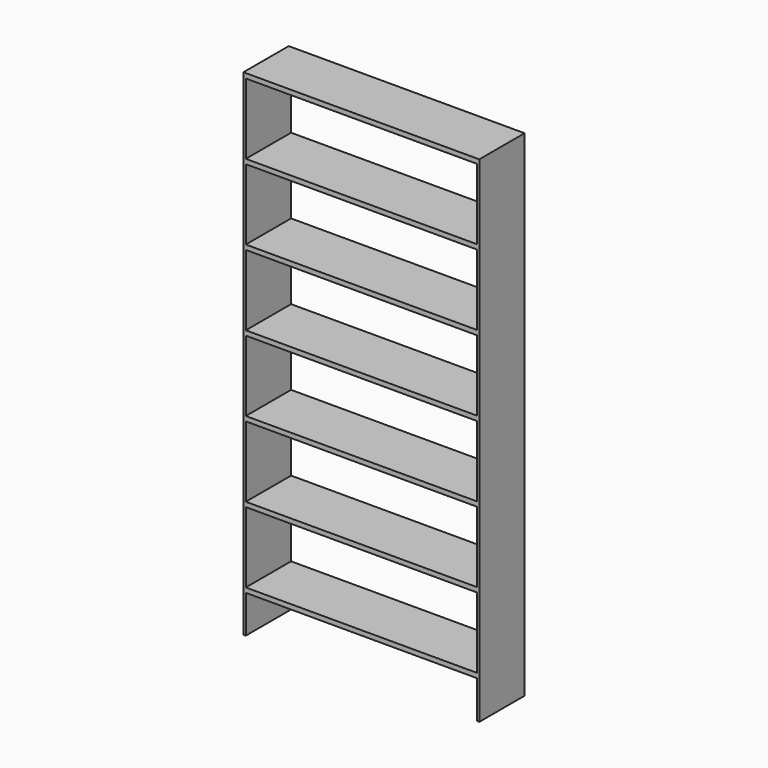
from build123d import *

# Parameters (mm, degrees)
F0_W     = 100
F0_H     = 24
F1_DEPTH = 210
F2_W     = 98
F2_H     = 30
F2_H_2   = 16
F3_DEPTH = 26


with BuildPart() as f1:
    # F0 (on Top) → F1 (new body)
    with BuildSketch(Plane.XY):
        with Locations((-170.040163, -48.344506)):
            Rectangle(F0_W, F0_H)
    extrude(amount=-F1_DEPTH)

    # F2 (on face) → F3 (cut)
    with BuildSketch(Plane.XZ.offset(60.344506)):
        with Locations((-170.040163, -17)):
            Rectangle(F2_W, F2_H)
        with Locations((-170.040163, -49)):
            Rectangle(F2_W, F2_H)
        with Locations((-170.040163, -81)):
            Rectangle(F2_W, F2_H)
        with Locations((-170.040163, -113)):
            Rectangle(F2_W, F2_H)
        with Locations((-170.040163, -145)):
            Rectangle(F2_W, F2_H)
        with Locations((-170.040163, -177)):
            Rectangle(F2_W, F2_H)
        with Locations((-170.040163, -202)):
            Rectangle(F2_W, F2_H_2)
    extrude(amount=-F3_DEPTH, mode=Mode.SUBTRACT)


solid = f1.part
